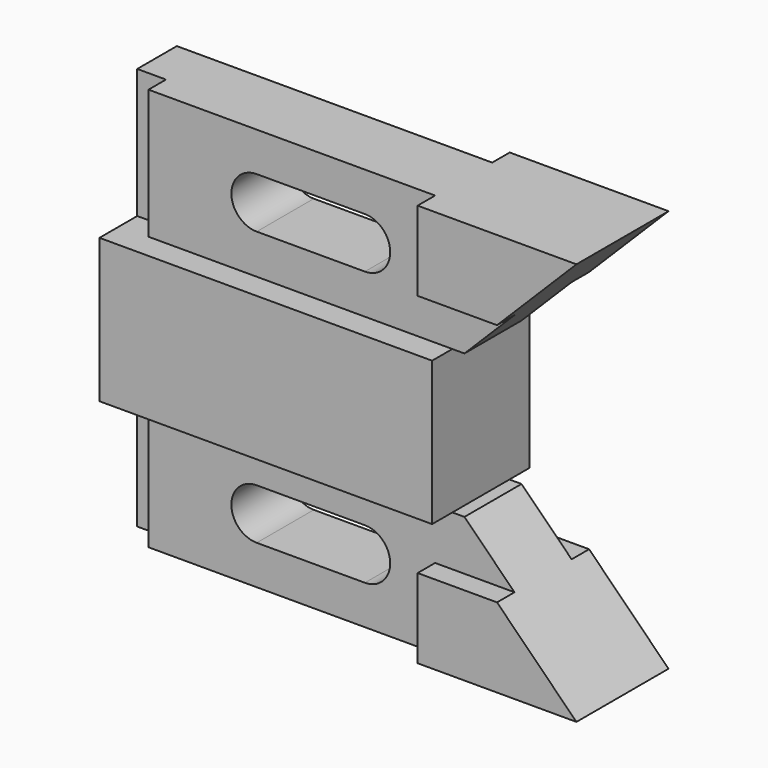
from build123d import *

# Parameters (mm, degrees)
F1_DEPTH = 13.462
F2_DEPTH = 7.874
F3_DEPTH = 12.7
F0_W     = 6.35
F0_H     = 28.575
F4_DEPTH = 7.874
F5_W     = 6.35
F5_H     = 28.575
F6_DEPTH = 4.826


with BuildPart() as f1:
    # F0 (on Front) → F1 (new body, symmetric)
    with BuildSketch(Plane.XZ):
        Polygon((-67.056, -15.875), (0, -15.875), (0, 15.875), (-67.056, 15.875), (-73.406, 15.875), (-73.406, -15.875), align=None)
    extrude(amount=F1_DEPTH, both=True)

    # F0 (on Front) → F2 (join, symmetric)
    with BuildSketch(Plane.XZ):
        Polygon((-3.81, -26.924), (13.716, -26.924), (2.667, -15.875), (0, -15.875), (-67.056, -15.875), (-67.056, -44.45), (-3.81, -44.45), align=None)
        with BuildLine():
            ThreePointArc((-19.304, -24.638), (-13.716, -30.226), (-19.304, -35.814))
            Line((-19.304, -35.814), (-43.18, -35.814))
            ThreePointArc((-43.18, -35.814), (-48.768, -30.226), (-43.18, -24.638))
            Line((-43.18, -24.638), (-19.304, -24.638))
        make_face(mode=Mode.SUBTRACT)
        Polygon((-67.056, 15.875), (0, 15.875), (2.667, 15.875), (13.716, 26.924), (-3.81, 26.924), (-3.81, 44.45), (-67.056, 44.45), align=None)
        with BuildLine():
            ThreePointArc((-19.304, 35.814), (-13.716, 30.226), (-19.304, 24.638))
            Line((-19.304, 24.638), (-43.18, 24.638))
            ThreePointArc((-43.18, 24.638), (-48.768, 30.226), (-43.18, 35.814))
            Line((-43.18, 35.814), (-19.304, 35.814))
        make_face(mode=Mode.SUBTRACT)
    extrude(amount=F2_DEPTH, both=True)

    # F0 (on Front) → F3 (join, symmetric)
    with BuildSketch(Plane.XZ):
        Polygon((-3.81, 26.924), (13.716, 26.924), (31.242, 44.45), (-3.81, 44.45), align=None)
        Polygon((-3.81, -44.45), (31.242, -44.45), (13.716, -26.924), (-3.81, -26.924), align=None)
    extrude(amount=F3_DEPTH, both=True)

    # F0 (on Front) → F4 (join, symmetric)
    with BuildSketch(Plane.XZ):
        with Locations((-70.231, 30.1625)):
            Rectangle(F0_W, F0_H)
        with Locations((-70.231, -30.1625)):
            Rectangle(F0_W, F0_H)
    extrude(amount=F4_DEPTH, both=True)

    # F5 (on face) → F6 (cut)
    with BuildSketch(Plane.XZ.offset(7.874)):
        with Locations((-70.231, 30.1625)):
            Rectangle(F5_W, F5_H)
        with Locations((-70.231, -30.1625)):
            Rectangle(F5_W, F5_H)
    extrude(amount=-F6_DEPTH, mode=Mode.SUBTRACT)


solid = f1.part
